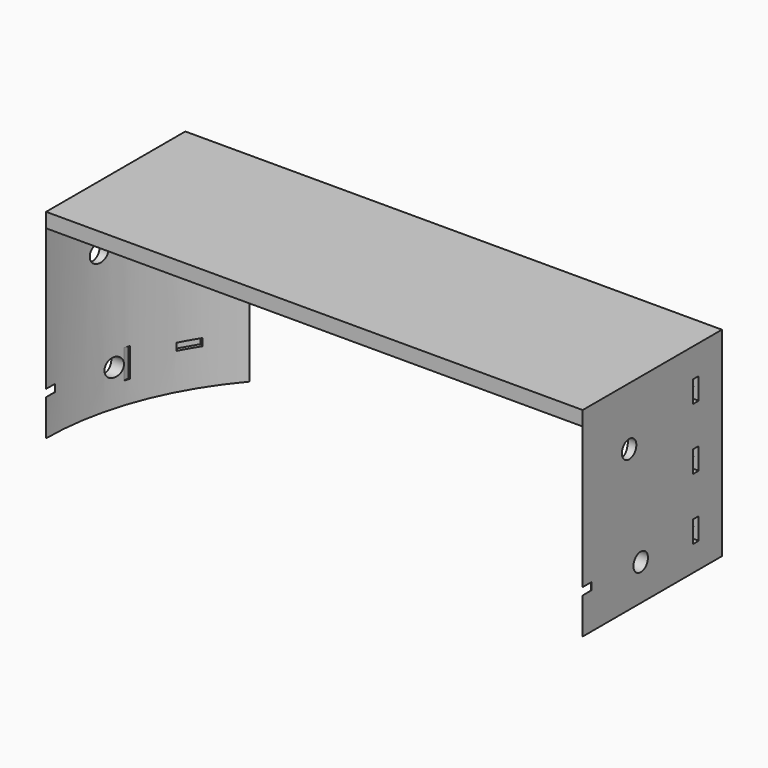
from build123d import *

# Parameters (mm, degrees)
BOX945_W                     = 8
BOX945_H                     = 2.5
BOX945_DEPTH                 = 8
BOX946_W                     = 8
BOX946_H                     = 2.5
BOX946_DEPTH                 = 8
COMPOUND1042_PLACEMENT_ANGLE = 90
BOX947_W                     = 8
BOX947_H                     = 2.5
BOX947_DEPTH                 = 8
BOX948_W                     = 8
BOX948_H                     = 2.5
BOX948_DEPTH                 = 8
COMPOUND1043_PLACEMENT_ANGLE = 90
BOX930_W                     = 8
BOX930_H                     = 2.5
BOX930_DEPTH                 = 8
BOX929_W                     = 8
BOX929_H                     = 2.5
BOX929_DEPTH                 = 8
BOX933_W                     = 8
BOX933_H                     = 2.5
BOX933_DEPTH                 = 8
BOX931_W                     = 8
BOX931_H                     = 2.5
BOX931_DEPTH                 = 8
BOX943_W                     = 8
BOX943_H                     = 2.5
BOX943_DEPTH                 = 8
BOX944_W                     = 8
BOX944_H                     = 2.5
BOX944_DEPTH                 = 8
BOX926_W                     = 8
BOX926_H                     = 2.5
BOX926_DEPTH                 = 8
BOX942_W                     = 8
BOX942_H                     = 2.5
BOX942_DEPTH                 = 8
CYLINDER1948_R               = 2.5
CYLINDER1948_DEPTH           = 40
CYLINDER1946_R               = 2.5
CYLINDER1946_DEPTH           = 40
COMPOUND1038_PLACEMENT_ANGLE = 90
CYLINDER1947_R               = 2.5
CYLINDER1947_DEPTH           = 40
CYLINDER1949_R               = 2.5
CYLINDER1949_DEPTH           = 40
COMPOUND1035_PLACEMENT_ANGLE = 90
CYLINDER1936_R               = 2.5
CYLINDER1936_DEPTH           = 40
CYLINDER1938_R               = 2.5
CYLINDER1938_DEPTH           = 40
CYLINDER1935_R               = 2.5
CYLINDER1935_DEPTH           = 40
CYLINDER1937_R               = 2.5
CYLINDER1937_DEPTH           = 40
CYLINDER1944_R               = 2.5
CYLINDER1944_DEPTH           = 40
CYLINDER1929_R               = 2.5
CYLINDER1929_DEPTH           = 40
CYLINDER1945_R               = 2.5
CYLINDER1945_DEPTH           = 40
CYLINDER1943_R               = 2.5
CYLINDER1943_DEPTH           = 40
BOX919_W                     = 8
BOX919_H                     = 20
BOX919_DEPTH                 = 8
BOX922_W                     = 8
BOX922_H                     = 20
BOX922_DEPTH                 = 8
COMPOUND1032_PLACEMENT_ANGLE = 90
BOX917_W                     = 8
BOX917_H                     = 20
BOX917_DEPTH                 = 8
BOX918_W                     = 8
BOX918_H                     = 20
BOX918_DEPTH                 = 8
COMPOUND1029_PLACEMENT_ANGLE = 90
BOX925_W                     = 8
BOX925_H                     = 20
BOX925_DEPTH                 = 8
BOX927_W                     = 8
BOX927_H                     = 20
BOX927_DEPTH                 = 8
BOX932_W                     = 8
BOX932_H                     = 20
BOX932_DEPTH                 = 8
BOX928_W                     = 8
BOX928_H                     = 20
BOX928_DEPTH                 = 8
BOX924_W                     = 8
BOX924_H                     = 20
BOX924_DEPTH                 = 8
BOX923_W                     = 8
BOX923_H                     = 20
BOX923_DEPTH                 = 8
BOX949_W                     = 8
BOX949_H                     = 20
BOX949_DEPTH                 = 8
BOX921_W                     = 8
BOX921_H                     = 20
BOX921_DEPTH                 = 8
CYLINDER1925_R               = 2.5
CYLINDER1925_DEPTH           = 40
CYLINDER1930_R               = 2.5
CYLINDER1930_DEPTH           = 40
COMPOUND1022_PLACEMENT_ANGLE = 90
CYLINDER1934_R               = 2.5
CYLINDER1934_DEPTH           = 40
CYLINDER1927_R               = 2.5
CYLINDER1927_DEPTH           = 40
COMPOUND1020_PLACEMENT_ANGLE = 90
CYLINDER1931_R               = 2.5
CYLINDER1931_DEPTH           = 40
CYLINDER1933_R               = 2.5
CYLINDER1933_DEPTH           = 40
CYLINDER1921_R               = 2.5
CYLINDER1921_DEPTH           = 40
CYLINDER1928_R               = 2.5
CYLINDER1928_DEPTH           = 40
CYLINDER1920_R               = 2.5
CYLINDER1920_DEPTH           = 40
CYLINDER1926_R               = 2.5
CYLINDER1926_DEPTH           = 40
BOX955_W                     = 6
BOX955_H                     = 8
BOX955_DEPTH                 = 2
BOX955_PLACEMENT_ANGLE       = 30
BOX956_W                     = 6
BOX956_H                     = 8
BOX956_DEPTH                 = 2
BOX956_PLACEMENT_ANGLE       = 60
BOX957_W                     = 6
BOX957_H                     = 8
BOX957_DEPTH                 = 2
BOX958_W                     = 6
BOX958_H                     = 8
BOX958_DEPTH                 = 2
BOX958_PLACEMENT_ANGLE       = 120
BOX959_W                     = 6
BOX959_H                     = 8
BOX959_DEPTH                 = 2
BOX959_PLACEMENT_ANGLE       = 150
BOX960_W                     = 6
BOX960_H                     = 8
BOX960_DEPTH                 = 2
BOX961_W                     = 6
BOX961_H                     = 8
BOX961_DEPTH                 = 2
BOX961_PLACEMENT_ANGLE       = 210
BOX962_W                     = 6
BOX962_H                     = 8
BOX962_DEPTH                 = 2
BOX962_PLACEMENT_ANGLE       = 240
BOX963_W                     = 6
BOX963_H                     = 8
BOX963_DEPTH                 = 2
BOX964_W                     = 6
BOX964_H                     = 8
BOX964_DEPTH                 = 2
BOX964_PLACEMENT_ANGLE       = 60
BOX965_W                     = 6
BOX965_H                     = 8
BOX965_DEPTH                 = 2
BOX965_PLACEMENT_ANGLE       = 30
BOX954_W                     = 6
BOX954_H                     = 8
BOX954_DEPTH                 = 2
BOX915_W                     = 8
BOX915_H                     = 2
BOX915_DEPTH                 = 6
BOX950_W                     = 8
BOX950_H                     = 2
BOX950_DEPTH                 = 6
BOX951_W                     = 8
BOX951_H                     = 2
BOX951_DEPTH                 = 6
BOX952_W                     = 8
BOX952_H                     = 2
BOX952_DEPTH                 = 6
BOX953_W                     = 8
BOX953_H                     = 2
BOX953_DEPTH                 = 6
BOX913_W                     = 8
BOX913_H                     = 2
BOX913_DEPTH                 = 6
CYLINDER1923_R               = 1.5
CYLINDER1923_DEPTH           = 50
CYLINDER1950_R               = 1.5
CYLINDER1950_DEPTH           = 50
CYLINDER1922_R               = 1.5
CYLINDER1922_DEPTH           = 50
CYLINDER1924_R               = 1.5
CYLINDER1924_DEPTH           = 50
CYLINDER1919_R               = 1.5
CYLINDER1919_DEPTH           = 50
CYLINDER1918_R               = 1.5
CYLINDER1918_DEPTH           = 50
BOX914_W                     = 148
BOX914_H                     = 26
BOX914_DEPTH                 = 55
CYLINDER1917_R               = 74
CYLINDER1917_DEPTH           = 51
BOX916_W                     = 148
BOX916_H                     = 74
BOX916_DEPTH                 = 55


with BuildPart() as krychle945:
    # Box945 → Box945 (new body)
    with BuildSketch(Plane(origin=(-68, -14, 65), x_dir=(0, 1, 0), z_dir=(0, 0, 1))):
        with Locations((4, 1.25)):
            Rectangle(BOX945_W, BOX945_H)
    extrude(amount=BOX945_DEPTH)


with BuildPart() as compound1042:
    # Box946 → Box946 (new body)
    with BuildSketch(Plane(origin=(-68, -14, 35), x_dir=(0, 1, 0), z_dir=(0, 0, 1))):
        with Locations((4, 1.25)):
            Rectangle(BOX946_W, BOX946_H)
    extrude(amount=BOX946_DEPTH)

    # Compound1042: union Krychle945
    add(krychle945.part)


with BuildPart() as compound1042_1:
    # Compound1042 placement: moved
    add(compound1042.part.moved(Location((1.5, 0, 0))).rotate(Axis((1.5, 0, 0), (0, 0, 1)), COMPOUND1042_PLACEMENT_ANGLE))


with BuildPart() as krychle947:
    # Box947 → Box947 (new body)
    with BuildSketch(Plane(origin=(-68, -14, 65), x_dir=(0, 1, 0), z_dir=(0, 0, 1))):
        with Locations((4, 1.25)):
            Rectangle(BOX947_W, BOX947_H)
    extrude(amount=BOX947_DEPTH)


with BuildPart() as compound1041:
    # Box948 → Box948 (new body)
    with BuildSketch(Plane(origin=(-68, -14, 35), x_dir=(0, 1, 0), z_dir=(0, 0, 1))):
        with Locations((4, 1.25)):
            Rectangle(BOX948_W, BOX948_H)
    extrude(amount=BOX948_DEPTH)

    # Compound1043: union Krychle947
    add(krychle947.part)


with BuildPart() as compound1041_1:
    # Compound1043 placement: moved
    add(compound1041.part.moved(Location((-21.5, 0, 0))).rotate(Axis((-21.5, 0, 0), (0, 0, 1)), COMPOUND1043_PLACEMENT_ANGLE))

    # Compound1041: union Compound1042
    add(compound1042_1.part)


with BuildPart() as krychle930:
    # Box930 → Box930 (new body)
    with BuildSketch(Plane(origin=(-68, 16, 35), x_dir=(0, 1, 0), z_dir=(0, 0, 1))):
        with Locations((4, 1.25)):
            Rectangle(BOX930_W, BOX930_H)
    extrude(amount=BOX930_DEPTH)


with BuildPart() as krychle929:
    # Box929 → Box929 (new body)
    with BuildSketch(Plane(origin=(-68, -14, 65), x_dir=(0, 1, 0), z_dir=(0, 0, 1))):
        with Locations((4, 1.25)):
            Rectangle(BOX929_W, BOX929_H)
    extrude(amount=BOX929_DEPTH)


with BuildPart() as krychle933:
    # Box933 → Box933 (new body)
    with BuildSketch(Plane(origin=(-68, 12, 64), x_dir=(0, 1, 0), z_dir=(0, 0, 1))):
        with Locations((4, 1.25)):
            Rectangle(BOX933_W, BOX933_H)
    extrude(amount=BOX933_DEPTH)


with BuildPart() as compound1044:
    # Box931 → Box931 (new body)
    with BuildSketch(Plane(origin=(-68, -14, 35), x_dir=(0, 1, 0), z_dir=(0, 0, 1))):
        with Locations((4, 1.25)):
            Rectangle(BOX931_W, BOX931_H)
    extrude(amount=BOX931_DEPTH)

    # Compound1044: union Krychle930, Krychle929, Krychle933
    add(krychle930.part)
    add(krychle929.part)
    add(krychle933.part)


with BuildPart() as mirror014:
    # mirror014: instance of Compound1044
    add(compound1044.part.mirror(Plane(origin=(0, 0, 0), x_dir=(0, -1, 0), z_dir=(1, 0, 0))))


with BuildPart() as krychle943:
    # Box943 → Box943 (new body)
    with BuildSketch(Plane(origin=(-68, 16, 35), x_dir=(0, 1, 0), z_dir=(0, 0, 1))):
        with Locations((4, 1.25)):
            Rectangle(BOX943_W, BOX943_H)
    extrude(amount=BOX943_DEPTH)


with BuildPart() as krychle944:
    # Box944 → Box944 (new body)
    with BuildSketch(Plane(origin=(-68, -14, 65), x_dir=(0, 1, 0), z_dir=(0, 0, 1))):
        with Locations((4, 1.25)):
            Rectangle(BOX944_W, BOX944_H)
    extrude(amount=BOX944_DEPTH)


with BuildPart() as krychle926:
    # Box926 → Box926 (new body)
    with BuildSketch(Plane(origin=(-68, 12, 64), x_dir=(0, 1, 0), z_dir=(0, 0, 1))):
        with Locations((4, 1.25)):
            Rectangle(BOX926_W, BOX926_H)
    extrude(amount=BOX926_DEPTH)


with BuildPart() as compound1046:
    # Box942 → Box942 (new body)
    with BuildSketch(Plane(origin=(-68, -14, 35), x_dir=(0, 1, 0), z_dir=(0, 0, 1))):
        with Locations((4, 1.25)):
            Rectangle(BOX942_W, BOX942_H)
    extrude(amount=BOX942_DEPTH)

    # Compound1040: union Krychle943, Krychle944, Krychle926
    add(krychle943.part)
    add(krychle944.part)
    add(krychle926.part)

    # Compound1046: union Compound1041, mirror014
    add(compound1041_1.part)
    add(mirror014.part)


with BuildPart() as obj1:
    # Cylinder1948 → Cylinder1948 (new body)
    with BuildSketch(Plane(origin=(-86, -10, 69), x_dir=(0, 0, -1), z_dir=(1, 0, 0))):
        Circle(CYLINDER1948_R)
    extrude(amount=CYLINDER1948_DEPTH)


with BuildPart() as compound1038:
    # Cylinder1946 → Cylinder1946 (new body)
    with BuildSketch(Plane(origin=(-86, -10, 39), x_dir=(0, 0, -1), z_dir=(1, 0, 0))):
        Circle(CYLINDER1946_R)
    extrude(amount=CYLINDER1946_DEPTH)

    # Compound1038: union obj1
    add(obj1.part)


with BuildPart() as compound1038_1:
    # Compound1038 placement: moved
    add(compound1038.part.moved(Location((-21.5, 0, 0))).rotate(Axis((-21.5, 0, 0), (0, 0, 1)), COMPOUND1038_PLACEMENT_ANGLE))


with BuildPart() as obj2:
    # Cylinder1947 → Cylinder1947 (new body)
    with BuildSketch(Plane(origin=(-86, -10, 69), x_dir=(0, 0, -1), z_dir=(1, 0, 0))):
        Circle(CYLINDER1947_R)
    extrude(amount=CYLINDER1947_DEPTH)


with BuildPart() as compound1039:
    # Cylinder1949 → Cylinder1949 (new body)
    with BuildSketch(Plane(origin=(-86, -10, 39), x_dir=(0, 0, -1), z_dir=(1, 0, 0))):
        Circle(CYLINDER1949_R)
    extrude(amount=CYLINDER1949_DEPTH)

    # Compound1035: union obj2
    add(obj2.part)


with BuildPart() as compound1039_1:
    # Compound1035 placement: moved
    add(compound1039.part.moved(Location((1.5, 0, 0))).rotate(Axis((1.5, 0, 0), (0, 0, 1)), COMPOUND1035_PLACEMENT_ANGLE))

    # Compound1039: union Compound1038
    add(compound1038_1.part)


with BuildPart() as obj3:
    # Cylinder1936 → Cylinder1936 (new body)
    with BuildSketch(Plane(origin=(-86, 20, 39), x_dir=(0, 0, -1), z_dir=(1, 0, 0))):
        Circle(CYLINDER1936_R)
    extrude(amount=CYLINDER1936_DEPTH)


with BuildPart() as obj4:
    # Cylinder1938 → Cylinder1938 (new body)
    with BuildSketch(Plane(origin=(-86, -10, 69), x_dir=(0, 0, -1), z_dir=(1, 0, 0))):
        Circle(CYLINDER1938_R)
    extrude(amount=CYLINDER1938_DEPTH)


with BuildPart() as obj5:
    # Cylinder1935 → Cylinder1935 (new body)
    with BuildSketch(Plane(origin=(-86, 16, 68), x_dir=(0, 0, -1), z_dir=(1, 0, 0))):
        Circle(CYLINDER1935_R)
    extrude(amount=CYLINDER1935_DEPTH)


with BuildPart() as compound1045:
    # Cylinder1937 → Cylinder1937 (new body)
    with BuildSketch(Plane(origin=(-86, -10, 39), x_dir=(0, 0, -1), z_dir=(1, 0, 0))):
        Circle(CYLINDER1937_R)
    extrude(amount=CYLINDER1937_DEPTH)

    # Compound1045: union obj3, obj4, obj5
    add(obj3.part)
    add(obj4.part)
    add(obj5.part)


with BuildPart() as mirror015:
    # mirror015: instance of Compound1045
    add(compound1045.part.mirror(Plane(origin=(0, 0, 0), x_dir=(0, -1, 0), z_dir=(1, 0, 0))))


with BuildPart() as obj6:
    # Cylinder1944 → Cylinder1944 (new body)
    with BuildSketch(Plane(origin=(-86, 20, 39), x_dir=(0, 0, -1), z_dir=(1, 0, 0))):
        Circle(CYLINDER1944_R)
    extrude(amount=CYLINDER1944_DEPTH)


with BuildPart() as obj7:
    # Cylinder1929 → Cylinder1929 (new body)
    with BuildSketch(Plane(origin=(-86, -10, 69), x_dir=(0, 0, -1), z_dir=(1, 0, 0))):
        Circle(CYLINDER1929_R)
    extrude(amount=CYLINDER1929_DEPTH)


with BuildPart() as obj8:
    # Cylinder1945 → Cylinder1945 (new body)
    with BuildSketch(Plane(origin=(-86, 16, 68), x_dir=(0, 0, -1), z_dir=(1, 0, 0))):
        Circle(CYLINDER1945_R)
    extrude(amount=CYLINDER1945_DEPTH)


with BuildPart() as compound1047:
    # Cylinder1943 → Cylinder1943 (new body)
    with BuildSketch(Plane(origin=(-86, -10, 39), x_dir=(0, 0, -1), z_dir=(1, 0, 0))):
        Circle(CYLINDER1943_R)
    extrude(amount=CYLINDER1943_DEPTH)

    # Compound1036: union obj6, obj7, obj8
    add(obj6.part)
    add(obj7.part)
    add(obj8.part)

    # Compound1047: union Compound1039, mirror015
    add(compound1039_1.part)
    add(mirror015.part)


with BuildPart() as krychle919:
    # Box919 → Box919 (new body)
    with BuildSketch(Plane(origin=(-48, -14, 65), x_dir=(0, 1, 0), z_dir=(0, 0, 1))):
        with Locations((4, 10)):
            Rectangle(BOX919_W, BOX919_H)
    extrude(amount=BOX919_DEPTH)


with BuildPart() as compound1032:
    # Box922 → Box922 (new body)
    with BuildSketch(Plane(origin=(-48, -14, 35), x_dir=(0, 1, 0), z_dir=(0, 0, 1))):
        with Locations((4, 10)):
            Rectangle(BOX922_W, BOX922_H)
    extrude(amount=BOX922_DEPTH)

    # Compound1032: union Krychle919
    add(krychle919.part)


with BuildPart() as compound1032_1:
    # Compound1032 placement: moved
    add(compound1032.part.moved(Location((1.5, 0, 0))).rotate(Axis((1.5, 0, 0), (0, 0, 1)), COMPOUND1032_PLACEMENT_ANGLE))


with BuildPart() as krychle917:
    # Box917 → Box917 (new body)
    with BuildSketch(Plane(origin=(-48, -14, 65), x_dir=(0, 1, 0), z_dir=(0, 0, 1))):
        with Locations((4, 10)):
            Rectangle(BOX917_W, BOX917_H)
    extrude(amount=BOX917_DEPTH)


with BuildPart() as compound1028:
    # Box918 → Box918 (new body)
    with BuildSketch(Plane(origin=(-48, -14, 35), x_dir=(0, 1, 0), z_dir=(0, 0, 1))):
        with Locations((4, 10)):
            Rectangle(BOX918_W, BOX918_H)
    extrude(amount=BOX918_DEPTH)

    # Compound1029: union Krychle917
    add(krychle917.part)


with BuildPart() as compound1028_1:
    # Compound1029 placement: moved
    add(compound1028.part.moved(Location((-21.5, 0, 0))).rotate(Axis((-21.5, 0, 0), (0, 0, 1)), COMPOUND1029_PLACEMENT_ANGLE))

    # Compound1028: union Compound1032
    add(compound1032_1.part)


with BuildPart() as krychle925:
    # Box925 → Box925 (new body)
    with BuildSketch(Plane(origin=(-48, 16, 35), x_dir=(0, 1, 0), z_dir=(0, 0, 1))):
        with Locations((4, 10)):
            Rectangle(BOX925_W, BOX925_H)
    extrude(amount=BOX925_DEPTH)


with BuildPart() as krychle927:
    # Box927 → Box927 (new body)
    with BuildSketch(Plane(origin=(-48, -14, 65), x_dir=(0, 1, 0), z_dir=(0, 0, 1))):
        with Locations((4, 10)):
            Rectangle(BOX927_W, BOX927_H)
    extrude(amount=BOX927_DEPTH)


with BuildPart() as krychle932:
    # Box932 → Box932 (new body)
    with BuildSketch(Plane(origin=(-48, 12, 64), x_dir=(0, 1, 0), z_dir=(0, 0, 1))):
        with Locations((4, 10)):
            Rectangle(BOX932_W, BOX932_H)
    extrude(amount=BOX932_DEPTH)


with BuildPart() as compound1048:
    # Box928 → Box928 (new body)
    with BuildSketch(Plane(origin=(-48, -14, 35), x_dir=(0, 1, 0), z_dir=(0, 0, 1))):
        with Locations((4, 10)):
            Rectangle(BOX928_W, BOX928_H)
    extrude(amount=BOX928_DEPTH)

    # Compound1048: union Krychle925, Krychle927, Krychle932
    add(krychle925.part)
    add(krychle927.part)
    add(krychle932.part)


with BuildPart() as mirror016:
    # mirror016: instance of Compound1048
    add(compound1048.part.mirror(Plane(origin=(0, 0, 0), x_dir=(0, -1, 0), z_dir=(1, 0, 0))))


with BuildPart() as krychle924:
    # Box924 → Box924 (new body)
    with BuildSketch(Plane(origin=(-48, 16, 35), x_dir=(0, 1, 0), z_dir=(0, 0, 1))):
        with Locations((4, 10)):
            Rectangle(BOX924_W, BOX924_H)
    extrude(amount=BOX924_DEPTH)


with BuildPart() as krychle923:
    # Box923 → Box923 (new body)
    with BuildSketch(Plane(origin=(-48, -14, 65), x_dir=(0, 1, 0), z_dir=(0, 0, 1))):
        with Locations((4, 10)):
            Rectangle(BOX923_W, BOX923_H)
    extrude(amount=BOX923_DEPTH)


with BuildPart() as krychle949:
    # Box949 → Box949 (new body)
    with BuildSketch(Plane(origin=(-48, 12, 64), x_dir=(0, 1, 0), z_dir=(0, 0, 1))):
        with Locations((4, 10)):
            Rectangle(BOX949_W, BOX949_H)
    extrude(amount=BOX949_DEPTH)


with BuildPart() as compound1049:
    # Box921 → Box921 (new body)
    with BuildSketch(Plane(origin=(-48, -14, 35), x_dir=(0, 1, 0), z_dir=(0, 0, 1))):
        with Locations((4, 10)):
            Rectangle(BOX921_W, BOX921_H)
    extrude(amount=BOX921_DEPTH)

    # Compound1031: union Krychle924, Krychle923, Krychle949
    add(krychle924.part)
    add(krychle923.part)
    add(krychle949.part)

    # Compound1049: union Compound1028, mirror016
    add(compound1028_1.part)
    add(mirror016.part)


with BuildPart() as obj9:
    # Cylinder1925 → Cylinder1925 (new body)
    with BuildSketch(Plane(origin=(-86, -10, 69), x_dir=(0, 0, -1), z_dir=(1, 0, 0))):
        Circle(CYLINDER1925_R)
    extrude(amount=CYLINDER1925_DEPTH)


with BuildPart() as compound1022:
    # Cylinder1930 → Cylinder1930 (new body)
    with BuildSketch(Plane(origin=(-86, -10, 39), x_dir=(0, 0, -1), z_dir=(1, 0, 0))):
        Circle(CYLINDER1930_R)
    extrude(amount=CYLINDER1930_DEPTH)

    # Compound1022: union obj9
    add(obj9.part)


with BuildPart() as compound1022_1:
    # Compound1022 placement: moved
    add(compound1022.part.moved(Location((-21.5, 0, 0))).rotate(Axis((-21.5, 0, 0), (0, 0, 1)), COMPOUND1022_PLACEMENT_ANGLE))


with BuildPart() as obj10:
    # Cylinder1934 → Cylinder1934 (new body)
    with BuildSketch(Plane(origin=(-86, -10, 69), x_dir=(0, 0, -1), z_dir=(1, 0, 0))):
        Circle(CYLINDER1934_R)
    extrude(amount=CYLINDER1934_DEPTH)


with BuildPart() as compound1051:
    # Cylinder1927 → Cylinder1927 (new body)
    with BuildSketch(Plane(origin=(-86, -10, 39), x_dir=(0, 0, -1), z_dir=(1, 0, 0))):
        Circle(CYLINDER1927_R)
    extrude(amount=CYLINDER1927_DEPTH)

    # Compound1020: union obj10
    add(obj10.part)


with BuildPart() as compound1051_1:
    # Compound1020 placement: moved
    add(compound1051.part.moved(Location((1.5, 0, 0))).rotate(Axis((1.5, 0, 0), (0, 0, 1)), COMPOUND1020_PLACEMENT_ANGLE))

    # Compound1051: union Compound1022
    add(compound1022_1.part)


with BuildPart() as obj11:
    # Cylinder1931 → Cylinder1931 (new body)
    with BuildSketch(Plane(origin=(-86, 20, 39), x_dir=(0, 0, -1), z_dir=(1, 0, 0))):
        Circle(CYLINDER1931_R)
    extrude(amount=CYLINDER1931_DEPTH)


with BuildPart() as obj12:
    # Cylinder1933 → Cylinder1933 (new body)
    with BuildSketch(Plane(origin=(-86, -10, 69), x_dir=(0, 0, -1), z_dir=(1, 0, 0))):
        Circle(CYLINDER1933_R)
    extrude(amount=CYLINDER1933_DEPTH)


with BuildPart() as compound1050:
    # Cylinder1921 → Cylinder1921 (new body)
    with BuildSketch(Plane(origin=(-86, -10, 39), x_dir=(0, 0, -1), z_dir=(1, 0, 0))):
        Circle(CYLINDER1921_R)
    extrude(amount=CYLINDER1921_DEPTH)

    # Compound1050: union obj11, obj12
    add(obj11.part)
    add(obj12.part)


with BuildPart() as mirror012:
    # mirror012: instance of Compound1050
    add(compound1050.part.mirror(Plane(origin=(0, 0, 0), x_dir=(0, -1, 0), z_dir=(1, 0, 0))))


with BuildPart() as obj13:
    # Cylinder1928 → Cylinder1928 (new body)
    with BuildSketch(Plane(origin=(-86, 20, 39), x_dir=(0, 0, -1), z_dir=(1, 0, 0))):
        Circle(CYLINDER1928_R)
    extrude(amount=CYLINDER1928_DEPTH)


with BuildPart() as obj14:
    # Cylinder1920 → Cylinder1920 (new body)
    with BuildSketch(Plane(origin=(-86, -10, 69), x_dir=(0, 0, -1), z_dir=(1, 0, 0))):
        Circle(CYLINDER1920_R)
    extrude(amount=CYLINDER1920_DEPTH)


with BuildPart() as compound1052:
    # Cylinder1926 → Cylinder1926 (new body)
    with BuildSketch(Plane(origin=(-86, -10, 39), x_dir=(0, 0, -1), z_dir=(1, 0, 0))):
        Circle(CYLINDER1926_R)
    extrude(amount=CYLINDER1926_DEPTH)

    # Compound1053: union obj13, obj14
    add(obj13.part)
    add(obj14.part)

    # Compound1052: union Compound1051, mirror012
    add(compound1051_1.part)
    add(mirror012.part)


with BuildPart() as krychle955:
    # Box955 → Box955 (new body)
    with BuildSketch(Plane.XY):
        with Locations((3, 4)):
            Rectangle(BOX955_W, BOX955_H)
    extrude(amount=BOX955_DEPTH)


with BuildPart() as krychle955_1:
    # Box955 placement: moved
    add(krychle955.part.moved(Location((34.901924, -66.451905, 39))).rotate(Axis((34.901924, -66.451905, 39), (0, 0, 1)), BOX955_PLACEMENT_ANGLE))


with BuildPart() as krychle956:
    # Box956 → Box956 (new body)
    with BuildSketch(Plane.XY):
        with Locations((3, 4)):
            Rectangle(BOX956_W, BOX956_H)
    extrude(amount=BOX956_DEPTH)


with BuildPart() as krychle956_1:
    # Box956 placement: moved
    add(krychle956.part.moved(Location((63.451905, -40.098076, 39))).rotate(Axis((63.451905, -40.098076, 39), (0, 0, 1)), BOX956_PLACEMENT_ANGLE))


with BuildPart() as krychle957:
    # Box957 → Box957 (new body)
    with BuildSketch(Plane(origin=(75, -3, 39), x_dir=(0, 1, 0), z_dir=(0, 0, 1))):
        with Locations((3, 4)):
            Rectangle(BOX957_W, BOX957_H)
    extrude(amount=BOX957_DEPTH)


with BuildPart() as krychle958:
    # Box958 → Box958 (new body)
    with BuildSketch(Plane.XY):
        with Locations((3, 4)):
            Rectangle(BOX958_W, BOX958_H)
    extrude(amount=BOX958_DEPTH)


with BuildPart() as krychle958_1:
    # Box958 placement: moved
    add(krychle958.part.moved(Location((66.451905, 34.901924, 39))).rotate(Axis((66.451905, 34.901924, 39), (0, 0, 1)), BOX958_PLACEMENT_ANGLE))


with BuildPart() as krychle959:
    # Box959 → Box959 (new body)
    with BuildSketch(Plane.XY):
        with Locations((3, 4)):
            Rectangle(BOX959_W, BOX959_H)
    extrude(amount=BOX959_DEPTH)


with BuildPart() as krychle959_1:
    # Box959 placement: moved
    add(krychle959.part.moved(Location((40.098076, 63.451905, 39))).rotate(Axis((40.098076, 63.451905, 39), (0, 0, 1)), BOX959_PLACEMENT_ANGLE))


with BuildPart() as krychle960:
    # Box960 → Box960 (new body)
    with BuildSketch(Plane(origin=(3, 75, 39), x_dir=(-1, 0, 0), z_dir=(0, 0, 1))):
        with Locations((3, 4)):
            Rectangle(BOX960_W, BOX960_H)
    extrude(amount=BOX960_DEPTH)


with BuildPart() as krychle961:
    # Box961 → Box961 (new body)
    with BuildSketch(Plane.XY):
        with Locations((3, 4)):
            Rectangle(BOX961_W, BOX961_H)
    extrude(amount=BOX961_DEPTH)


with BuildPart() as krychle961_1:
    # Box961 placement: moved
    add(krychle961.part.moved(Location((-34.901924, 66.451905, 39))).rotate(Axis((-34.901924, 66.451905, 39), (0, 0, 1)), BOX961_PLACEMENT_ANGLE))


with BuildPart() as krychle962:
    # Box962 → Box962 (new body)
    with BuildSketch(Plane.XY):
        with Locations((3, 4)):
            Rectangle(BOX962_W, BOX962_H)
    extrude(amount=BOX962_DEPTH)


with BuildPart() as krychle962_1:
    # Box962 placement: moved
    add(krychle962.part.moved(Location((-63.451905, 40.098076, 39))).rotate(Axis((-63.451905, 40.098076, 39), (0, 0, 1)), BOX962_PLACEMENT_ANGLE))


with BuildPart() as krychle963:
    # Box963 → Box963 (new body)
    with BuildSketch(Plane(origin=(-75, 3, 39), x_dir=(0, -1, 0), z_dir=(0, 0, 1))):
        with Locations((3, 4)):
            Rectangle(BOX963_W, BOX963_H)
    extrude(amount=BOX963_DEPTH)


with BuildPart() as krychle964:
    # Box964 → Box964 (new body)
    with BuildSketch(Plane.XY):
        with Locations((3, 4)):
            Rectangle(BOX964_W, BOX964_H)
    extrude(amount=BOX964_DEPTH)


with BuildPart() as krychle964_1:
    # Box964 placement: moved
    add(krychle964.part.moved(Location((-66.451905, -34.901924, 39))).rotate(Axis((-66.451905, -34.901924, 39), (0, 0, -1)), BOX964_PLACEMENT_ANGLE))


with BuildPart() as krychle965:
    # Box965 → Box965 (new body)
    with BuildSketch(Plane.XY):
        with Locations((3, 4)):
            Rectangle(BOX965_W, BOX965_H)
    extrude(amount=BOX965_DEPTH)


with BuildPart() as krychle965_1:
    # Box965 placement: moved
    add(krychle965.part.moved(Location((-40.098076, -63.451905, 39))).rotate(Axis((-40.098076, -63.451905, 39), (0, 0, -1)), BOX965_PLACEMENT_ANGLE))


with BuildPart() as compound1023:
    # Box954 → Box954 (new body)
    with BuildSketch(Plane(origin=(-3, -75, 39), x_dir=(1, 0, 0), z_dir=(0, 0, 1))):
        with Locations((3, 4)):
            Rectangle(BOX954_W, BOX954_H)
    extrude(amount=BOX954_DEPTH)

    # Compound1023: union Krychle955, Krychle956, Krychle957, Krychle958, Krychle959, Krychle960, Krychle961, Krychle962, Krychle963, Krychle964, Krychle965
    add(krychle955_1.part)
    add(krychle956_1.part)
    add(krychle957.part)
    add(krychle958_1.part)
    add(krychle959_1.part)
    add(krychle960.part)
    add(krychle961_1.part)
    add(krychle962_1.part)
    add(krychle963.part)
    add(krychle964_1.part)
    add(krychle965_1.part)


with BuildPart() as krychle915:
    # Box915 → Box915 (new body)
    with BuildSketch(Plane(origin=(67, 38, 36), x_dir=(1, 0, 0), z_dir=(0, 0, 1))):
        with Locations((4, 1)):
            Rectangle(BOX915_W, BOX915_H)
    extrude(amount=BOX915_DEPTH)


with BuildPart() as krychle950:
    # Box950 → Box950 (new body)
    with BuildSketch(Plane(origin=(67, 38, 70), x_dir=(1, 0, 0), z_dir=(0, 0, 1))):
        with Locations((4, 1)):
            Rectangle(BOX950_W, BOX950_H)
    extrude(amount=BOX950_DEPTH)


with BuildPart() as krychle951:
    # Box951 → Box951 (new body)
    with BuildSketch(Plane(origin=(-75, 38, 70), x_dir=(1, 0, 0), z_dir=(0, 0, 1))):
        with Locations((4, 1)):
            Rectangle(BOX951_W, BOX951_H)
    extrude(amount=BOX951_DEPTH)


with BuildPart() as krychle952:
    # Box952 → Box952 (new body)
    with BuildSketch(Plane(origin=(-75, 38, 53), x_dir=(1, 0, 0), z_dir=(0, 0, 1))):
        with Locations((4, 1)):
            Rectangle(BOX952_W, BOX952_H)
    extrude(amount=BOX952_DEPTH)


with BuildPart() as krychle953:
    # Box953 → Box953 (new body)
    with BuildSketch(Plane(origin=(67, 38, 53), x_dir=(1, 0, 0), z_dir=(0, 0, 1))):
        with Locations((4, 1)):
            Rectangle(BOX953_W, BOX953_H)
    extrude(amount=BOX953_DEPTH)


with BuildPart() as compound1021:
    # Box913 → Box913 (new body)
    with BuildSketch(Plane(origin=(-75, 38, 36), x_dir=(1, 0, 0), z_dir=(0, 0, 1))):
        with Locations((4, 1)):
            Rectangle(BOX913_W, BOX913_H)
    extrude(amount=BOX913_DEPTH)

    # Compound1021: union Krychle915, Krychle950, Krychle951, Krychle952, Krychle953
    add(krychle915.part)
    add(krychle950.part)
    add(krychle951.part)
    add(krychle952.part)
    add(krychle953.part)


with BuildPart() as obj15:
    # Cylinder1923 → Cylinder1923 (new body)
    with BuildSketch(Plane(origin=(71, 80, 39), x_dir=(1, 0, 0), z_dir=(0, -1, 0))):
        Circle(CYLINDER1923_R)
    extrude(amount=CYLINDER1923_DEPTH)


with BuildPart() as obj16:
    # Cylinder1950 → Cylinder1950 (new body)
    with BuildSketch(Plane(origin=(-71, 80, 39), x_dir=(1, 0, 0), z_dir=(0, -1, 0))):
        Circle(CYLINDER1950_R)
    extrude(amount=CYLINDER1950_DEPTH)


with BuildPart() as obj17:
    # Cylinder1922 → Cylinder1922 (new body)
    with BuildSketch(Plane(origin=(71, 80, 73), x_dir=(1, 0, 0), z_dir=(0, -1, 0))):
        Circle(CYLINDER1922_R)
    extrude(amount=CYLINDER1922_DEPTH)


with BuildPart() as obj18:
    # Cylinder1924 → Cylinder1924 (new body)
    with BuildSketch(Plane(origin=(-71, 80, 56), x_dir=(1, 0, 0), z_dir=(0, -1, 0))):
        Circle(CYLINDER1924_R)
    extrude(amount=CYLINDER1924_DEPTH)


with BuildPart() as obj19:
    # Cylinder1919 → Cylinder1919 (new body)
    with BuildSketch(Plane(origin=(71, 80, 56), x_dir=(1, 0, 0), z_dir=(0, -1, 0))):
        Circle(CYLINDER1919_R)
    extrude(amount=CYLINDER1919_DEPTH)


with BuildPart() as compound1025:
    # Cylinder1918 → Cylinder1918 (new body)
    with BuildSketch(Plane(origin=(-71, 80, 73), x_dir=(1, 0, 0), z_dir=(0, -1, 0))):
        Circle(CYLINDER1918_R)
    extrude(amount=CYLINDER1918_DEPTH)

    # Compound1025: union obj15, obj16, obj17, obj18, obj19
    add(obj15.part)
    add(obj16.part)
    add(obj17.part)
    add(obj18.part)
    add(obj19.part)


with BuildPart() as krychle914:
    # Box914 → Box914 (new body)
    with BuildSketch(Plane(origin=(-74, 48, 29), x_dir=(1, 0, 0), z_dir=(0, 0, 1))):
        with Locations((74, 13)):
            Rectangle(BOX914_W, BOX914_H)
    extrude(amount=BOX914_DEPTH)


with BuildPart() as obj20:
    # Cylinder1917 → Cylinder1917 (new body)
    with BuildSketch(Plane.XY.offset(29)):
        Circle(CYLINDER1917_R)
    extrude(amount=CYLINDER1917_DEPTH)


with BuildPart() as cut644:
    # Box916 → Box916 (new body)
    with BuildSketch(Plane(origin=(-74, 0, 29), x_dir=(1, 0, 0), z_dir=(0, 0, 1))):
        with Locations((74, 37)):
            Rectangle(BOX916_W, BOX916_H)
    extrude(amount=BOX916_DEPTH)

    # Cut638: cut obj20
    add(obj20.part, mode=Mode.SUBTRACT)

    # Cut639: cut Krychle914
    add(krychle914.part, mode=Mode.SUBTRACT)

    # Cut640: cut Compound1025
    add(compound1025.part, mode=Mode.SUBTRACT)

    # Cut641: cut Compound1021
    add(compound1021.part, mode=Mode.SUBTRACT)

    # Cut626: cut Compound1023
    add(compound1023.part, mode=Mode.SUBTRACT)

    # Cut627: cut Compound1052
    add(compound1052.part, mode=Mode.SUBTRACT)

    # Cut642: cut Compound1049
    add(compound1049.part, mode=Mode.SUBTRACT)

    # Cut643: cut Compound1047
    add(compound1047.part, mode=Mode.SUBTRACT)

    # Cut644: cut Compound1046
    add(compound1046.part, mode=Mode.SUBTRACT)


solid = cut644.part
